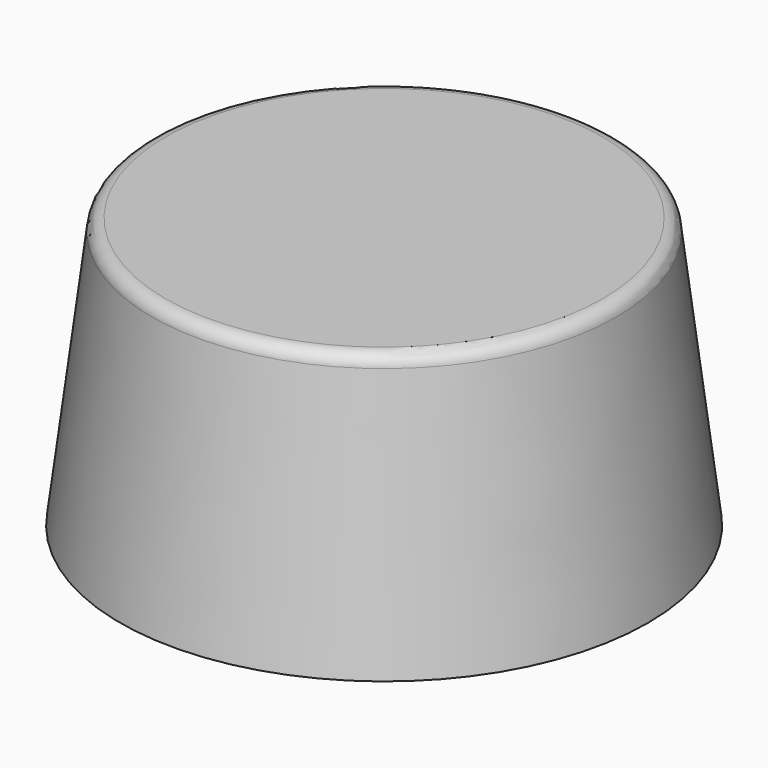
from build123d import *

# Parameters (mm, degrees)
F0_R     = 24.765
F1_DEPTH = 25.4
F1_TAPER = 7
F2_T     = -1.905
F3_R     = 1.27


with BuildPart() as f1:
    # F0 (on Top) → F1 (new body)
    with BuildSketch(Plane.XY):
        Circle(F0_R)
    extrude(amount=F1_DEPTH, taper=F1_TAPER)

    # F2
    f2_openings = [f1.faces().sort_by_distance(p)[0] for p in [
        (0, 0, 0),
    ]]
    offset(amount=F2_T, openings=f2_openings)

    # F3
    f3_edges = [f1.edges().sort_by_distance(p)[0] for p in [
        (-19.960871, 0, 23.495),
        (-21.646272, 0, 25.4),
    ]]
    fillet(f3_edges, radius=F3_R)


solid = f1.part
